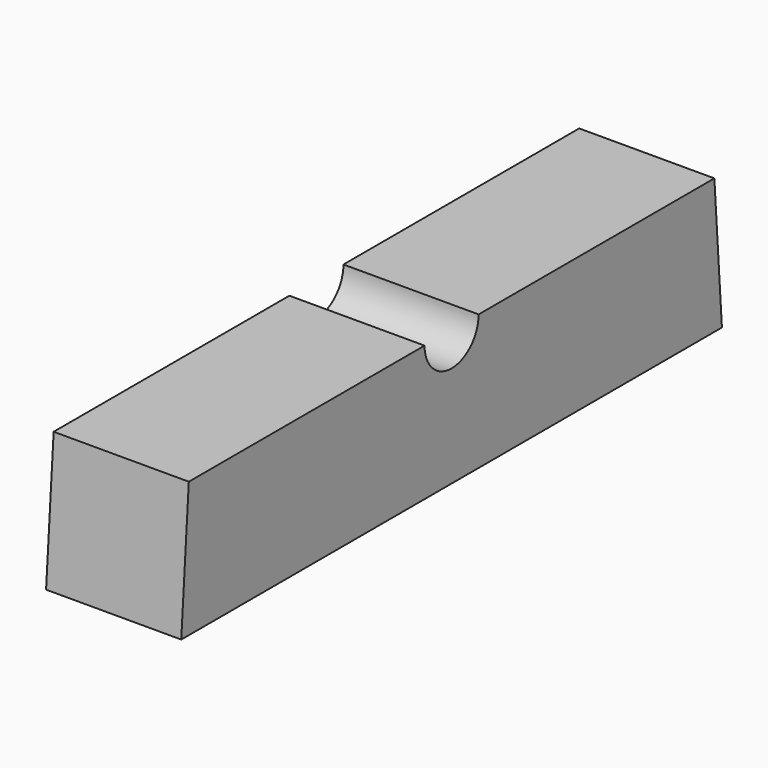
from build123d import *

# Parameters (mm, degrees)
F1_DEPTH = 40


with BuildPart() as f1:
    # F0 (on Right) → F1 (new body)
    with BuildSketch(Plane.YZ):
        with BuildLine():
            Line((-200, 0), (0, 0))
            Line((0, 0), (-2.797072, 40))
            Line((-2.797072, 40), (-90, 40))
            ThreePointArc((-90, 40), (-100, 30), (-110, 40))
            Line((-110, 40), (-197.202928, 40))
            Line((-197.202928, 40), (-200, 0))
        make_face()
    extrude(amount=F1_DEPTH)


solid = f1.part
